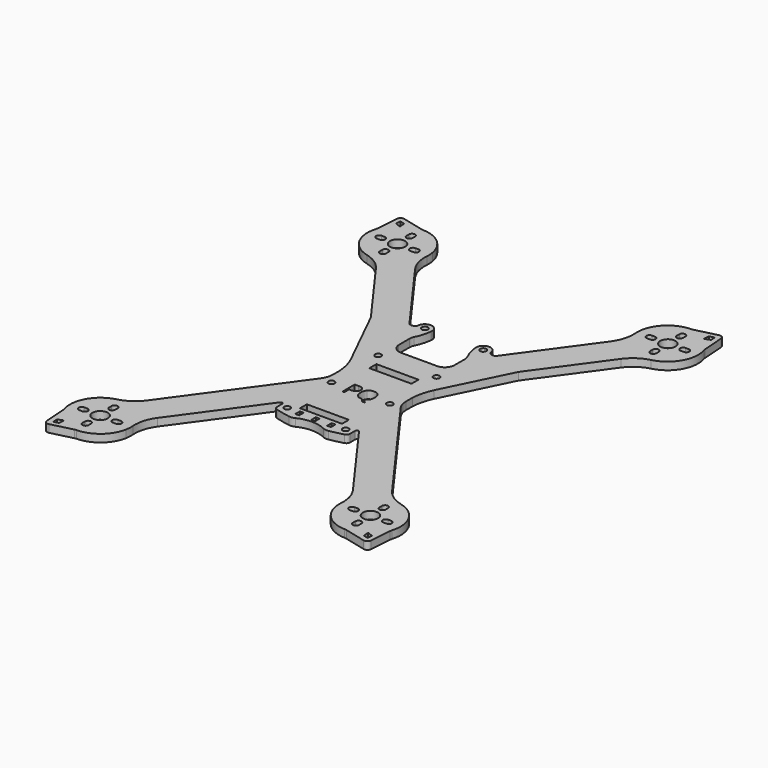
from build123d import *

# Parameters (mm, degrees)
F0_R     = 4
F0_R_2   = 1.6
F0_W     = 2
F0_H     = 3
F0_W_2   = 22
F0_H_2   = 4.5
F1_DEPTH = 4
F2_R     = 10
F3_R     = 10
F4_R     = 5
F5_R     = 2
F6_R     = 5
F7_R     = 2
F8_R     = 5
F9_R     = 2
F10_R    = 5
F11_R    = 18
F12_R    = 18
F13_R    = 2


with BuildPart() as f1:
    # F0 (on Top) → F1 (new body)
    with BuildSketch(Plane.XY):
        with BuildLine():
            Line((19.05, 21.4085225016), (19.05, 26.1809311446))
            Line((19.05, 26.1809311446), (21.2543855706, 29.22405256))
            Line((21.2543855706, 29.22405256), (38.553873539, 53.1057377848))
            Line((38.553873539, 53.1057377848), (68.7532035913, 94.7954626845))
            ThreePointArc((68.7532035913, 94.7954626845), (82.9073660492, 100.7279579356), (85.5569203816, 115.8446598454))
            Line((85.5569203816, 115.8446598454), (84.504292611, 130.1765891068))
            Line((84.504292611, 130.1765891068), (70.5582932457, 126.7094111071))
            ThreePointArc((70.5582932457, 126.7094111071), (60.2018341591, 123.036285306), (54.6570498048, 113.5492697358))
            ThreePointArc((54.6570498048, 113.5492697358), (54.5200373001, 108.7796377603), (55.7956386032, 104.1817031236))
            Line((55.7956386032, 104.1817031236), (22.8258407812, 58.6673887723))
            Line((22.8258407812, 58.6673887723), (19.05, 53.4548968672))
            Line((19.05, 53.4548968672), (19.05, 59.2696730196))
            ThreePointArc((19.05, 59.2696730196), (19.0480113154, 59.3921908292), (19.042047357, 59.514579553))
            ThreePointArc((19.042047357, 59.514579553), (15.1524821905, 63.0426843351), (11.5, 59.2696730196))
            ThreePointArc((11.5, 59.2696730196), (11.5337258527, 58.9007648217), (11.5731852758, 58.5324257856))
            ThreePointArc((11.5731852758, 58.5324257856), (12.4080201737, 54.4554042715), (13.9397618075, 50.5859312711))
            ThreePointArc((13.9397618075, 50.5859312711), (14.3351255633, 49.4970898992), (14.4693143666, 48.3464894482))
            Line((14.4693143666, 48.3464894482), (14.4693143666, 41.2276759744))
            Line((14.4693143666, 41.2276759744), (14.4693143666, 36.423638463))
            Line((14.4693143666, 36.423638463), (11.5, 36.423638463))
            Line((11.5, 36.423638463), (9.9915210158, 36.423638463))
            Line((9.9915210158, 36.423638463), (0, 36.423638463))
            Line((0, 36.423638463), (-9.9915210158, 36.423638463))
            ThreePointArc((-9.9915210158, 36.423638463), (-13.0819944826, 38.0319113569), (-14.4693143666, 41.2276759744))
            Line((-14.4693143666, 41.2276759744), (-14.4693143666, 48.3464894482))
            ThreePointArc((-14.4693143666, 48.3464894482), (-14.3351255633, 49.4970898992), (-13.9397618075, 50.5859312711))
            ThreePointArc((-13.9397618075, 50.5859312711), (-12.4080201737, 54.4554042715), (-11.5731852758, 58.5324257856))
            ThreePointArc((-11.5731852758, 58.5324257856), (-11.5337258527, 58.9007648217), (-11.5, 59.2696730196))
            ThreePointArc((-11.5, 59.2696730196), (-15.1524821905, 63.0426843351), (-19.042047357, 59.514579553))
            ThreePointArc((-19.042047357, 59.514579553), (-19.1039671629, 59.2209603659), (-19.246163364, 58.956713266))
            ThreePointArc((-19.246163364, 58.956713266), (-20.8073532718, 58.0089455976), (-22.5849557166, 58.4281198213))
            ThreePointArc((-22.5849557166, 58.4281198213), (-22.7151014781, 58.5379855282), (-22.8258407812, 58.6673887723))
            Line((-22.8258407812, 58.6673887723), (-55.7956386032, 104.1817031236))
            ThreePointArc((-55.7956386032, 104.1817031236), (-54.5200373001, 108.7796377603), (-54.6570498048, 113.5492697358))
            ThreePointArc((-54.6570498048, 113.5492697358), (-60.2018341591, 123.036285306), (-70.5582932457, 126.7094111071))
            Line((-70.5582932457, 126.7094111071), (-84.504292611, 130.1765891068))
            Line((-84.504292611, 130.1765891068), (-85.5569203816, 115.8446598454))
            ThreePointArc((-85.5569203816, 115.8446598454), (-82.9073660492, 100.7279579356), (-68.7532035913, 94.7954626845))
            Line((-68.7532035913, 94.7954626845), (-38.553873539, 53.1057377848))
            Line((-38.553873539, 53.1057377848), (-21.7645137145, 19.0291896546))
            ThreePointArc((-21.7645137145, 19.0291896546), (-19.891009662, 13.7762751944), (-19.05, 8.2630338147))
            Line((-19.05, 8.2630338147), (-19.05, 5.6308235377))
            Line((-19.05, 5.6308235377), (-19.05, 0.8584148947))
            Line((-19.05, 0.8584148947), (-21.2543855706, -2.1847065207))
            Line((-21.2543855706, -2.1847065207), (-68.7532035913, -67.7561166452))
            ThreePointArc((-68.7532035913, -67.7561166452), (-82.9073660492, -73.6886118963), (-85.5569203816, -88.8053138061))
            Line((-85.5569203816, -88.8053138061), (-84.504292611, -103.1372430675))
            Line((-84.504292611, -103.1372430675), (-70.5582932457, -99.6700650678))
            ThreePointArc((-70.5582932457, -99.6700650678), (-60.2018341591, -95.9969392667), (-54.6570498048, -86.5099236965))
            ThreePointArc((-54.6570498048, -86.5099236965), (-54.5200373001, -81.740291721), (-55.7956386032, -77.1423570843))
            Line((-55.7956386032, -77.1423570843), (-20.6749049541, -28.6587078915))
            ThreePointArc((-20.6749049541, -28.6587078915), (-19.670977667, -28.3313339644), (-19.05, -29.1854009542))
            Line((-19.05, -29.1854009542), (-19.05, -32.2303269804))
            Line((-19.05, -32.2303269804), (-19.05, -33.9001305401))
            ThreePointArc((-19.05, -33.9001305401), (-13.7316100144, -35.3281564328), (-8.3091873676, -36.288293209))
            ThreePointArc((-8.3091873676, -36.288293209), (0.2325769878, -33.8776315088), (8.792680459, -36.2223397416))
            ThreePointArc((8.792680459, -36.2223397416), (13.9696770786, -35.2747415322), (19.05, -33.9001305401))
            Line((19.05, -33.9001305401), (19.05, -32.2303269804))
            Line((19.05, -32.2303269804), (19.05, -29.1854009542))
            ThreePointArc((19.05, -29.1854009542), (19.670977667, -28.3313339644), (20.6749049541, -28.6587078915))
            Line((20.6749049541, -28.6587078915), (55.7956386032, -77.1423570843))
            ThreePointArc((55.7956386032, -77.1423570843), (54.5200373001, -81.740291721), (54.6570498048, -86.5099236965))
            ThreePointArc((54.6570498048, -86.5099236965), (60.2018341591, -95.9969392667), (70.5582932457, -99.6700650678))
            Line((70.5582932457, -99.6700650678), (84.504292611, -103.1372430675))
            Line((84.504292611, -103.1372430675), (85.5569203816, -88.8053138061))
            ThreePointArc((85.5569203816, -88.8053138061), (82.9073660492, -73.6886118963), (68.7532035913, -67.7561166452))
            Line((68.7532035913, -67.7561166452), (21.2543855706, -2.1847065207))
            Line((21.2543855706, -2.1847065207), (19.05, 0.8584148947))
            Line((19.05, 0.8584148947), (19.05, 5.6308235377))
            Line((19.05, 5.6308235377), (19.05, 8.2630338147))
            Line((19.05, 8.2630338147), (19.05, 21.4085225016))
        make_face()
        Polygon((-79.6146023637, -99.2247694003), (-82.1216653645, -99.8480616759), (-82.3108955564, -97.2716203152), (-79.4201259003, -96.1186267225), align=None, mode=Mode.SUBTRACT)
        with BuildLine():
            Line((-69.0250760606, -91.5057663609), (-69.0250760606, -93.1057663609))
            ThreePointArc((-69.0250760606, -93.1057663609), (-70.6250760606, -94.7057663609), (-72.2250760606, -93.1057663609))
            Line((-72.2250760606, -93.1057663609), (-72.2250760606, -91.5057663609))
            ThreePointArc((-72.2250760606, -91.5057663609), (-70.6250760606, -89.9057663609), (-69.0250760606, -91.5057663609))
        make_face(mode=Mode.SUBTRACT)
        with BuildLine():
            Line((-80.2250760606, -82.0057663609), (-78.6250760606, -82.0057663609))
            ThreePointArc((-78.6250760606, -82.0057663609), (-77.0250760606, -83.6057663609), (-78.6250760606, -85.2057663609))
            Line((-78.6250760606, -85.2057663609), (-80.2250760606, -85.2057663609))
            ThreePointArc((-80.2250760606, -85.2057663609), (-81.8250760606, -83.6057663609), (-80.2250760606, -82.0057663609))
        make_face(mode=Mode.SUBTRACT)
        with Locations((-70.6250760606, -83.6057663609)):
            Circle(F0_R, mode=Mode.SUBTRACT)
        with BuildLine():
            ThreePointArc((-69.0250760606, -75.7057663609), (-70.6250760606, -77.3057663609), (-72.2250760606, -75.7057663609))
            Line((-72.2250760606, -75.7057663609), (-72.2250760606, -74.1057663609))
            ThreePointArc((-72.2250760606, -74.1057663609), (-70.6250760606, -72.5057663609), (-69.0250760606, -74.1057663609))
            Line((-69.0250760606, -74.1057663609), (-69.0250760606, -75.7057663609))
        make_face(mode=Mode.SUBTRACT)
        with BuildLine():
            ThreePointArc((-61.0250760606, -82.0057663609), (-59.4250760606, -83.6057663609), (-61.0250760606, -85.2057663609))
            Line((-61.0250760606, -85.2057663609), (-62.6250760606, -85.2057663609))
            ThreePointArc((-62.6250760606, -85.2057663609), (-64.2250760606, -83.6057663609), (-62.6250760606, -82.0057663609))
            Line((-62.6250760606, -82.0057663609), (-61.0250760606, -82.0057663609))
        make_face(mode=Mode.SUBTRACT)
        with Locations((-15.25, -30.5715762079)):
            Circle(F0_R_2, mode=Mode.SUBTRACT)
        with Locations((-8.3091873676, -31.2631130219)):
            Rectangle(F0_W, F0_H, mode=Mode.SUBTRACT)
        with Locations((-15.25, -1.7303269804)):
            Circle(F0_R_2, mode=Mode.SUBTRACT)
        with BuildLine():
            add(Edge.make_bspline(
                [(-4.5772221423, 2.7003403276), (-1.5821206733, 2.7003403276), (-1.5821206733, 0.3717888935)],
                knots=[0, 0, 0, 1, 1, 1], degree=2))
            add(Edge.make_bspline(
                [(-1.5821206733, 0.3717888935), (-1.5821206733, -0.8423468656), (-2.4104971602, -1.4957758368)],
                knots=[0, 0, 0, 1, 1, 1], degree=2))
            add(Edge.make_bspline(
                [(-2.4104971602, -1.4957758368), (-3.2388736471, -2.149204808), (-4.7801612605, -2.149204808)],
                knots=[0, 0, 0, 1, 1, 1], degree=2))
            Line((-4.7801612605, -2.149204808), (-5.7213788951, -2.149204808))
            Line((-5.7213788951, -2.149204808), (-5.7213788951, -5.2930116653))
            Line((-5.7213788951, -5.2930116653), (-6.6503502035, -5.2930116653))
            Line((-6.6503502035, -5.2930116653), (-6.6503502035, 2.7003403276))
            Line((-6.6503502035, 2.7003403276), (-4.5772221423, 2.7003403276))
        make_face(mode=Mode.SUBTRACT)
        with BuildLine():
            Line((61.0250760606, -82.0057663609), (62.6250760606, -82.0057663609))
            ThreePointArc((62.6250760606, -82.0057663609), (64.2250760606, -83.6057663609), (62.6250760606, -85.2057663609))
            Line((62.6250760606, -85.2057663609), (61.0250760606, -85.2057663609))
            ThreePointArc((61.0250760606, -85.2057663609), (59.4250760606, -83.6057663609), (61.0250760606, -82.0057663609))
        make_face(mode=Mode.SUBTRACT)
        with BuildLine():
            ThreePointArc((72.2250760606, -93.1057663609), (70.6250760606, -94.7057663609), (69.0250760606, -93.1057663609))
            Line((69.0250760606, -93.1057663609), (69.0250760606, -91.5057663609))
            ThreePointArc((69.0250760606, -91.5057663609), (70.6250760606, -89.9057663609), (72.2250760606, -91.5057663609))
            Line((72.2250760606, -91.5057663609), (72.2250760606, -93.1057663609))
        make_face(mode=Mode.SUBTRACT)
        Polygon((82.1216653645, -99.8480616759), (79.6146023637, -99.2247694003), (79.4201259003, -96.1186267225), (82.3108955564, -97.2716203152), align=None, mode=Mode.SUBTRACT)
        with Locations((70.6250760606, -83.6057663609)):
            Circle(F0_R, mode=Mode.SUBTRACT)
        with BuildLine():
            Line((72.2250760606, -74.1057663609), (72.2250760606, -75.7057663609))
            ThreePointArc((72.2250760606, -75.7057663609), (70.6250760606, -77.3057663609), (69.0250760606, -75.7057663609))
            Line((69.0250760606, -75.7057663609), (69.0250760606, -74.1057663609))
            ThreePointArc((69.0250760606, -74.1057663609), (70.6250760606, -72.5057663609), (72.2250760606, -74.1057663609))
        make_face(mode=Mode.SUBTRACT)
        with BuildLine():
            ThreePointArc((78.6250760606, -85.2057663609), (77.0250760606, -83.6057663609), (78.6250760606, -82.0057663609))
            Line((78.6250760606, -82.0057663609), (80.2250760606, -82.0057663609))
            ThreePointArc((80.2250760606, -82.0057663609), (81.8250760606, -83.6057663609), (80.2250760606, -85.2057663609))
            Line((80.2250760606, -85.2057663609), (78.6250760606, -85.2057663609))
        make_face(mode=Mode.SUBTRACT)
        with Locations((0, -31.2631130219)):
            Rectangle(F0_W, F0_H, mode=Mode.SUBTRACT)
        with Locations((8.3091873676, -31.2631130219)):
            Rectangle(F0_W, F0_H, mode=Mode.SUBTRACT)
        with Locations((15.25, -30.5715762079)):
            Circle(F0_R_2, mode=Mode.SUBTRACT)
        with Locations((0, -25.3886245191)):
            Rectangle(F0_W_2, F0_H_2, mode=Mode.SUBTRACT)
        with BuildLine():
            add(Edge.make_bspline(
                [(6.0613362882, 1.7328805657), (7.0287960501, 0.6394585925), (7.0287960501, -1.2849640803)],
                knots=[0, 0, 0, 1, 1, 1], degree=2))
            add(Edge.make_bspline(
                [(7.0287960501, -1.2849640803), (7.0287960501, -2.8210032683), (6.4112313197, -3.8383230722)],
                knots=[0, 0, 0, 1, 1, 1], degree=2))
            add(Edge.make_bspline(
                [(6.4112313197, -3.8383230722), (5.7936665892, -4.8556428761), (4.667004588, -5.2160347584)],
                knots=[0, 0, 0, 1, 1, 1], degree=2))
            Line((4.667004588, -5.2160347584), (6.5686840838, -7.1964406363))
            Line((6.5686840838, -7.1964406363), (5.2180892625, -7.1964406363))
            Line((5.2180892625, -7.1964406363), (3.6610563726, -5.3909822741))
            Line((3.6610563726, -5.3909822741), (3.3601466456, -5.4032286002))
            add(Edge.make_bspline(
                [(3.3601466456, -5.4032286002), (1.5949262121, -5.4032286002), (0.6353390884, -4.3229276907)],
                knots=[0, 0, 0, 1, 1, 1], degree=2))
            add(Edge.make_bspline(
                [(0.6353390884, -4.3229276907), (-0.3242480353, -3.2426267812), (-0.3242480353, -1.2744672294)],
                knots=[0, 0, 0, 1, 1, 1], degree=2))
            add(Edge.make_bspline(
                [(-0.3242480353, -1.2744672294), (-0.3242480353, 0.677947046), (0.6379633011, 1.7521247924)],
                knots=[0, 0, 0, 1, 1, 1], degree=2))
            add(Edge.make_bspline(
                [(0.6379633011, 1.7521247924), (1.6001746375, 2.8263025389), (3.3706434966, 2.8263025389)],
                knots=[0, 0, 0, 1, 1, 1], degree=2))
            add(Edge.make_bspline(
                [(3.3706434966, 2.8263025389), (5.0938765263, 2.8263025389), (6.0613362882, 1.7328805657)],
                knots=[0, 0, 0, 1, 1, 1], degree=2))
        make_face(mode=Mode.SUBTRACT)
        with BuildLine():
            ThreePointArc((13.65, -1.7303269804), (15.25, -0.1303269804), (16.85, -1.7303269804))
            ThreePointArc((16.85, -1.7303269804), (15.25, -3.3303269804), (13.65, -1.7303269804))
        make_face(mode=Mode.SUBTRACT)
        with BuildLine():
            Line((-19.05, 26.1809311446), (-19.05, 21.4085225016))
            ThreePointArc((-19.05, 21.4085225016), (-19.6661769691, 25.4533692443), (-21.2543855706, 29.22405256))
            Line((-21.2543855706, 29.22405256), (-19.05, 26.1809311446))
        make_face(mode=Mode.SUBTRACT)
        with Locations((-15.25, 28.7696730196)):
            Circle(F0_R_2, mode=Mode.SUBTRACT)
        with Locations((-15.25, 59.2696730196)):
            Circle(F0_R_2, mode=Mode.SUBTRACT)
        with BuildLine():
            Line((-80.2250760606, 112.2451124002), (-78.6250760606, 112.2451124002))
            ThreePointArc((-78.6250760606, 112.2451124002), (-77.0250760606, 110.6451124002), (-78.6250760606, 109.0451124002))
            Line((-78.6250760606, 109.0451124002), (-80.2250760606, 109.0451124002))
            ThreePointArc((-80.2250760606, 109.0451124002), (-81.8250760606, 110.6451124002), (-80.2250760606, 112.2451124002))
        make_face(mode=Mode.SUBTRACT)
        with BuildLine():
            ThreePointArc((-69.0250760606, 101.1451124002), (-70.6250760606, 99.5451124002), (-72.2250760606, 101.1451124002))
            Line((-72.2250760606, 101.1451124002), (-72.2250760606, 102.7451124002))
            ThreePointArc((-72.2250760606, 102.7451124002), (-70.6250760606, 104.3451124002), (-69.0250760606, 102.7451124002))
            Line((-69.0250760606, 102.7451124002), (-69.0250760606, 101.1451124002))
        make_face(mode=Mode.SUBTRACT)
        with Locations((-70.6250760606, 110.6451124002)):
            Circle(F0_R, mode=Mode.SUBTRACT)
        Polygon((-82.3108955564, 124.3109663545), (-82.1216653645, 126.8874077152), (-79.6146023637, 126.2641154396), (-79.4201259003, 123.1579727618), align=None, mode=Mode.SUBTRACT)
        with BuildLine():
            Line((-69.0250760606, 120.1451124002), (-69.0250760606, 118.5451124002))
            ThreePointArc((-69.0250760606, 118.5451124002), (-70.6250760606, 116.9451124002), (-72.2250760606, 118.5451124002))
            Line((-72.2250760606, 118.5451124002), (-72.2250760606, 120.1451124002))
            ThreePointArc((-72.2250760606, 120.1451124002), (-70.6250760606, 121.7451124002), (-69.0250760606, 120.1451124002))
        make_face(mode=Mode.SUBTRACT)
        with BuildLine():
            Line((-61.0250760606, 109.0451124002), (-62.6250760606, 109.0451124002))
            ThreePointArc((-62.6250760606, 109.0451124002), (-64.2250760606, 110.6451124002), (-62.6250760606, 112.2451124002))
            Line((-62.6250760606, 112.2451124002), (-61.0250760606, 112.2451124002))
            ThreePointArc((-61.0250760606, 112.2451124002), (-59.4250760606, 110.6451124002), (-61.0250760606, 109.0451124002))
        make_face(mode=Mode.SUBTRACT)
        Polygon((-11, 22.3), (11, 22.3), (11, 17.7), (6.8502412244, 17.7), (-6.8502412244, 17.7), (-11, 17.7), align=None, mode=Mode.SUBTRACT)
        with BuildLine():
            ThreePointArc((13.65, 28.7696730196), (15.25, 30.3696730196), (16.85, 28.7696730196))
            ThreePointArc((16.85, 28.7696730196), (15.25, 27.1696730196), (13.65, 28.7696730196))
        make_face(mode=Mode.SUBTRACT)
        with Locations((15.25, 59.2696730196)):
            Circle(F0_R_2, mode=Mode.SUBTRACT)
        with BuildLine():
            ThreePointArc((62.6250760606, 112.2451124002), (64.2250760606, 110.6451124002), (62.6250760606, 109.0451124002))
            Line((62.6250760606, 109.0451124002), (61.0250760606, 109.0451124002))
            ThreePointArc((61.0250760606, 109.0451124002), (59.4250760606, 110.6451124002), (61.0250760606, 112.2451124002))
            Line((61.0250760606, 112.2451124002), (62.6250760606, 112.2451124002))
        make_face(mode=Mode.SUBTRACT)
        with BuildLine():
            ThreePointArc((72.2250760606, 101.1451124002), (70.6250760606, 99.5451124002), (69.0250760606, 101.1451124002))
            Line((69.0250760606, 101.1451124002), (69.0250760606, 102.7451124002))
            ThreePointArc((69.0250760606, 102.7451124002), (70.6250760606, 104.3451124002), (72.2250760606, 102.7451124002))
            Line((72.2250760606, 102.7451124002), (72.2250760606, 101.1451124002))
        make_face(mode=Mode.SUBTRACT)
        with Locations((70.6250760606, 110.6451124002)):
            Circle(F0_R, mode=Mode.SUBTRACT)
        with BuildLine():
            ThreePointArc((78.6250760606, 109.0451124002), (77.0250760606, 110.6451124002), (78.6250760606, 112.2451124002))
            Line((78.6250760606, 112.2451124002), (80.2250760606, 112.2451124002))
            ThreePointArc((80.2250760606, 112.2451124002), (81.8250760606, 110.6451124002), (80.2250760606, 109.0451124002))
            Line((80.2250760606, 109.0451124002), (78.6250760606, 109.0451124002))
        make_face(mode=Mode.SUBTRACT)
        with BuildLine():
            ThreePointArc((69.0250760606, 120.1451124002), (70.6250760606, 121.7451124002), (72.2250760606, 120.1451124002))
            Line((72.2250760606, 120.1451124002), (72.2250760606, 118.5451124002))
            ThreePointArc((72.2250760606, 118.5451124002), (70.6250760606, 116.9451124002), (69.0250760606, 118.5451124002))
            Line((69.0250760606, 118.5451124002), (69.0250760606, 120.1451124002))
        make_face(mode=Mode.SUBTRACT)
        Polygon((79.6146023637, 126.2641154396), (82.1216653645, 126.8874077152), (82.3108955564, 124.3109663545), (79.4201259003, 123.1579727618), align=None, mode=Mode.SUBTRACT)
        with BuildLine():
            ThreePointArc((21.2543855706, 29.22405256), (19.6661769691, 25.4533692443), (19.05, 21.4085225016))
            Line((19.05, 21.4085225016), (19.05, 8.2630338147))
            ThreePointArc((19.05, 8.2630338147), (19.891009662, 13.7762751944), (21.7645137145, 19.0291896546))
            Line((21.7645137145, 19.0291896546), (38.553873539, 53.1057377848))
            Line((38.553873539, 53.1057377848), (21.2543855706, 29.22405256))
        make_face()
        with BuildLine():
            Line((21.2543855706, 29.22405256), (19.05, 26.1809311446))
            Line((19.05, 26.1809311446), (19.05, 21.4085225016))
            ThreePointArc((19.05, 21.4085225016), (19.6661769691, 25.4533692443), (21.2543855706, 29.22405256))
        make_face()
        with BuildLine():
            Line((14.4693143666, 36.423638463), (14.4693143666, 41.2276759744))
            ThreePointArc((14.4693143666, 41.2276759744), (13.5750487755, 38.6485784341), (11.5, 36.8749866972))
            Line((11.5, 36.8749866972), (11.5, 36.423638463))
            Line((11.5, 36.423638463), (14.4693143666, 36.423638463))
        make_face()
        with BuildLine():
            Line((11.5, 36.423638463), (11.5, 36.8749866972))
            ThreePointArc((11.5, 36.8749866972), (10.7628992839, 36.5920320116), (9.9915210158, 36.423638463))
            Line((9.9915210158, 36.423638463), (11.5, 36.423638463))
        make_face()
        with BuildLine():
            ThreePointArc((-21.2543855706, 29.22405256), (-19.6661769691, 25.4533692443), (-19.05, 21.4085225016))
            Line((-19.05, 21.4085225016), (-19.05, 26.1809311446))
            Line((-19.05, 26.1809311446), (-21.2543855706, 29.22405256))
        make_face()
        with BuildLine():
            Line((19.05, 53.4548968672), (22.8258407812, 58.6673887723))
            ThreePointArc((22.8258407812, 58.6673887723), (22.7151014781, 58.5379855282), (22.5849557166, 58.4281198213))
            ThreePointArc((22.5849557166, 58.4281198213), (20.8073532718, 58.0089455976), (19.246163364, 58.956713266))
            ThreePointArc((19.246163364, 58.956713266), (19.1180653749, 59.1845360286), (19.05, 59.4368838259))
            Line((19.05, 59.4368838259), (19.05, 59.2696730196))
            Line((19.05, 59.2696730196), (19.05, 53.4548968672))
        make_face()
    extrude(amount=F1_DEPTH)

    # F2
    f2_edges = [f1.edges().sort_by_distance(p)[0] for p in [
        (19.05, 0.858415, 2),
    ]]
    fillet(f2_edges, radius=F2_R)

    # F3
    f3_edges = [f1.edges().sort_by_distance(p)[0] for p in [
        (-19.05, 0.858415, 2),
    ]]
    fillet(f3_edges, radius=F3_R)

    # F4
    f4_edges = [f1.edges().sort_by_distance(p)[0] for p in [
        (-8.309187, -36.288293, 2),
        (8.79268, -36.22234, 2),
    ]]
    fillet(f4_edges, radius=F4_R)

    # F5
    f5_edges = [f1.edges().sort_by_distance(p)[0] for p in [
        (84.504293, -103.137243, 2),
    ]]
    fillet(f5_edges, radius=F5_R)

    # F6
    f6_edges = [f1.edges().sort_by_distance(p)[0] for p in [
        (85.55692, -88.805314, 2),
        (70.558293, -99.670065, 2),
    ]]
    fillet(f6_edges, radius=F6_R)

    # F7
    f7_edges = [f1.edges().sort_by_distance(p)[0] for p in [
        (-84.504293, -103.137243, 2),
    ]]
    fillet(f7_edges, radius=F7_R)

    # F8
    f8_edges = [f1.edges().sort_by_distance(p)[0] for p in [
        (-70.558293, -99.670065, 2),
        (-85.55692, -88.805314, 2),
    ]]
    fillet(f8_edges, radius=F8_R)

    # F9
    f9_edges = [f1.edges().sort_by_distance(p)[0] for p in [
        (-84.504293, 130.176589, 2),
        (84.504293, 130.176589, 2),
    ]]
    fillet(f9_edges, radius=F9_R)

    # F10
    f10_edges = [f1.edges().sort_by_distance(p)[0] for p in [
        (85.55692, 115.84466, 2),
        (70.558293, 126.709411, 2),
        (-85.55692, 115.84466, 2),
        (-70.558293, 126.709411, 2),
    ]]
    fillet(f10_edges, radius=F10_R)

    # F11
    f11_edges = [f1.edges().sort_by_distance(p)[0] for p in [
        (68.753204, -67.756117, 2),
        (55.795639, -77.142357, 2),
    ]]
    fillet(f11_edges, radius=F11_R)

    # F12
    f12_edges = [f1.edges().sort_by_distance(p)[0] for p in [
        (-68.753204, -67.756117, 2),
        (-55.795639, -77.142357, 2),
        (68.753204, 94.795463, 2),
        (-55.795639, 104.181703, 2),
        (-68.753204, 94.795463, 2),
        (55.795639, 104.181703, 2),
    ]]
    fillet(f12_edges, radius=F12_R)

    # F13
    f13_edges = [f1.edges().sort_by_distance(p)[0] for p in [
        (19.05, -33.900131, 2),
        (-19.05, -33.900131, 2),
    ]]
    fillet(f13_edges, radius=F13_R)


solid = f1.part
